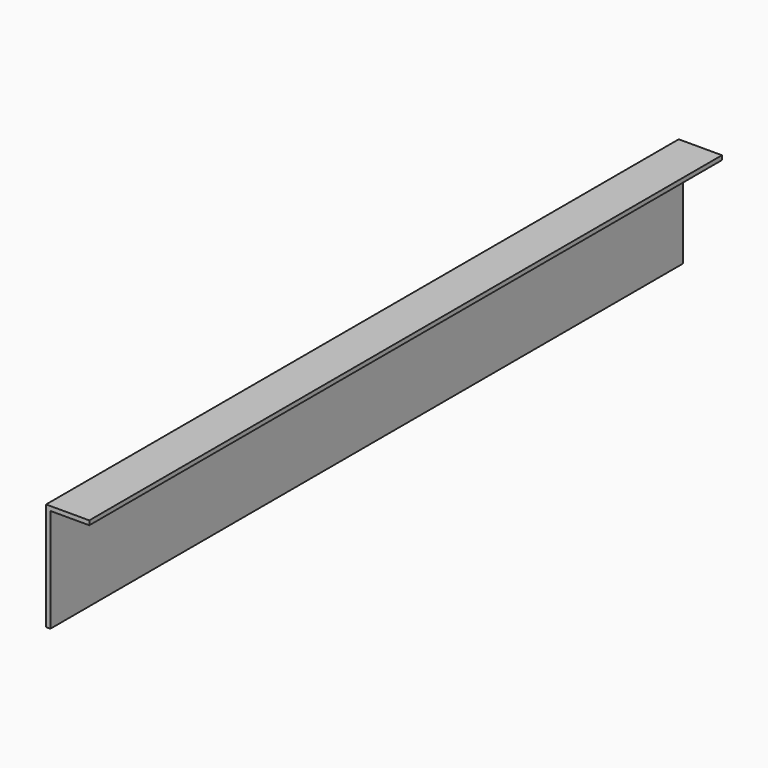
from build123d import *

# Parameters (mm, degrees)
PAD_DEPTH = 183


with BuildPart() as part:
    # Sketch → Pad (new body)
    with BuildSketch(Plane.XZ):
        Polygon((9, 0), (0, 0), (0, -24), (-1, -24), (-1, 1), (9, 1), align=None)
    extrude(amount=PAD_DEPTH)


solid = part.part
